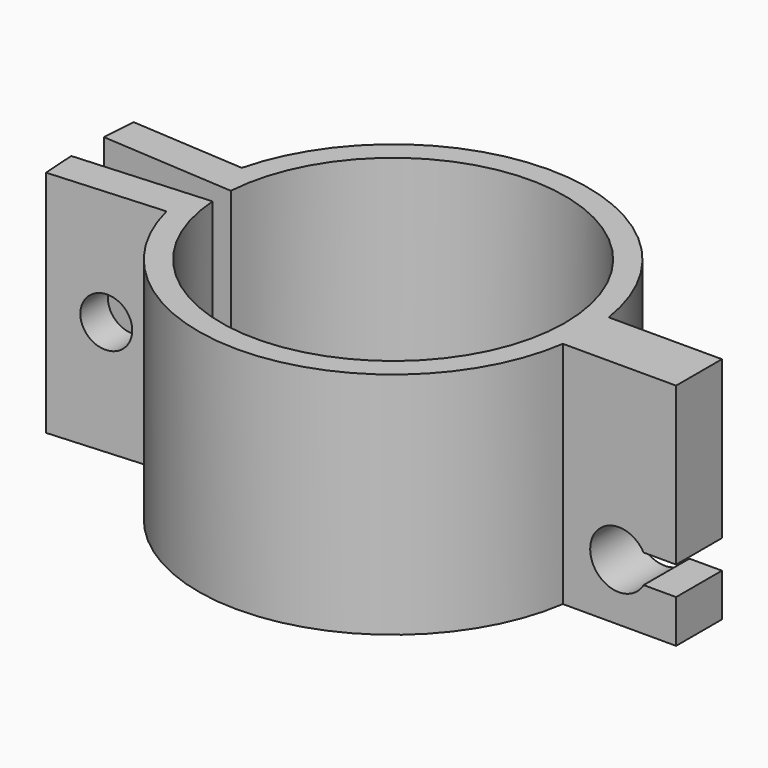
from build123d import *

# Parameters (mm, degrees)
PAD_DEPTH         = 20
SKETCH001_R       = 2.15
POCKET_DEPTH      = 17.001
POCKET_DEPTH_BACK = -17.001
PAD001_DEPTH      = 2.5


with BuildPart() as part:
    # Sketch → Pad (new body)
    with BuildSketch(Plane.XY):
        with BuildLine():
            ThreePointArc((-14.96663, -1), (15, 0), (-14.96663, 1))
            Line((-14.96663, 1), (-26.673727, 1.782213))
            Line((-26.673727, 1.782213), (-26.473727, 4.775539))
            Line((-26.473727, 4.775539), (-16.495974, 4.108873))
            ThreePointArc((-16.495974, -4.108873), (17, 0), (-16.495974, 4.108873))
            Line((-26.473727, -4.775539), (-16.495974, -4.108873))
            Line((-26.673727, -1.782213), (-26.473727, -4.775539))
            Line((-14.96663, -1), (-26.673727, -1.782213))
        make_face()
    extrude(amount=PAD_DEPTH)

    # Sketch001 → Pocket (cut, two sides)
    with BuildSketch(Plane.XZ) as pocket_sk:
        with Locations((-21.484851, 10)):
            Circle(SKETCH001_R)
    extrude(amount=-POCKET_DEPTH, mode=Mode.SUBTRACT)
    extrude(pocket_sk.sketch, amount=-POCKET_DEPTH_BACK, mode=Mode.SUBTRACT)

    # Sketch002 → Pad001 (join, symmetric)
    with BuildSketch(Plane.XZ):
        with BuildLine():
            Line((16.7, 20), (16.7, 0))
            Line((16.7, 0), (26.7, 0))
            Line((26.7, 0), (26.7, 3.75))
            Line((26.7, 3.75), (23.865064, 3.75))
            ThreePointArc((23.865064, 6.25), (19.2, 5), (23.865064, 3.75))
            Line((23.865064, 6.25), (26.7, 6.25))
            Line((26.7, 6.25), (26.7, 20))
            Line((26.7, 20), (16.7, 20))
        make_face()
    extrude(amount=PAD001_DEPTH, both=True)


solid = part.part
